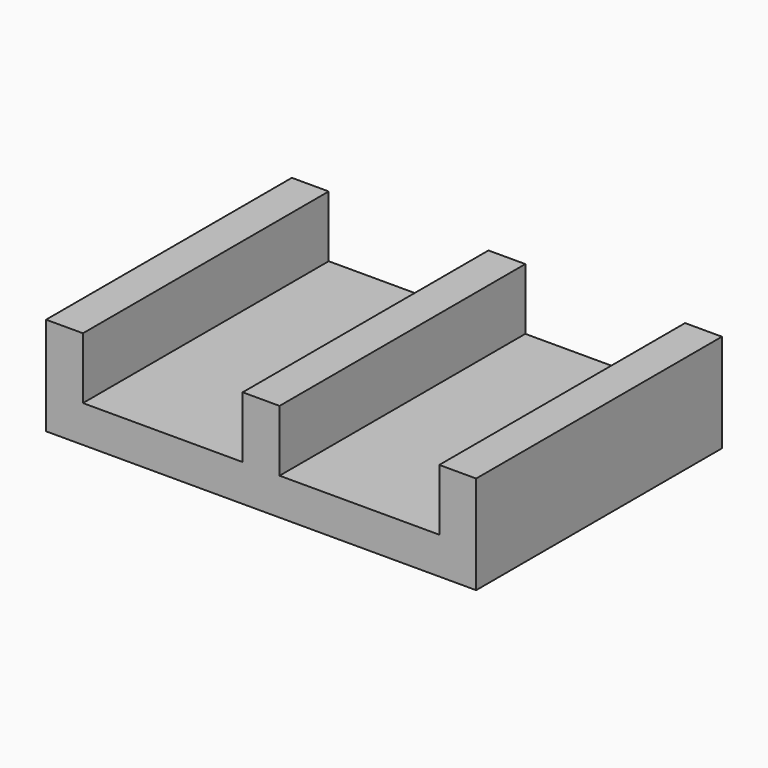
from build123d import *

# Parameters (mm, degrees)
F0_W     = 35
F0_H     = 25
F1_DEPTH = 3
F2_W     = 1.5
F2_H     = 12.5
F3_DEPTH = 5
F4_W     = 3
F4_H     = 25
F5_DEPTH = 5
F6_W     = 3
F6_H     = 25
F7_DEPTH = 5


with BuildPart() as f1:
    # F0 (on Top) → F1 (new body)
    with BuildSketch(Plane.XY):
        with Locations((41.165313, -53.700294)):
            Rectangle(F0_W, F0_H)
    extrude(amount=F1_DEPTH)

    # F2 (on face) → F3 (join)
    with BuildSketch(Plane.XY.offset(3)):
        with Locations((40.415313, -47.450294)):
            Rectangle(F2_W, F2_H)
        with Locations((40.415313, -59.950294)):
            Rectangle(F2_W, F2_H)
        with Locations((41.915313, -47.450294)):
            Rectangle(F2_W, F2_H)
        with Locations((41.915313, -59.950294)):
            Rectangle(F2_W, F2_H)
    extrude(amount=F3_DEPTH)

    # F4 (on face) → F5 (join)
    with BuildSketch(Plane.XY.offset(3)):
        with Locations((25.165313, -53.700294)):
            Rectangle(F4_W, F4_H)
    extrude(amount=F5_DEPTH)

    # F6 (on face) → F7 (join)
    with BuildSketch(Plane.XY.offset(3)):
        with Locations((57.165313, -53.700294)):
            Rectangle(F6_W, F6_H)
    extrude(amount=F7_DEPTH)


solid = f1.part
